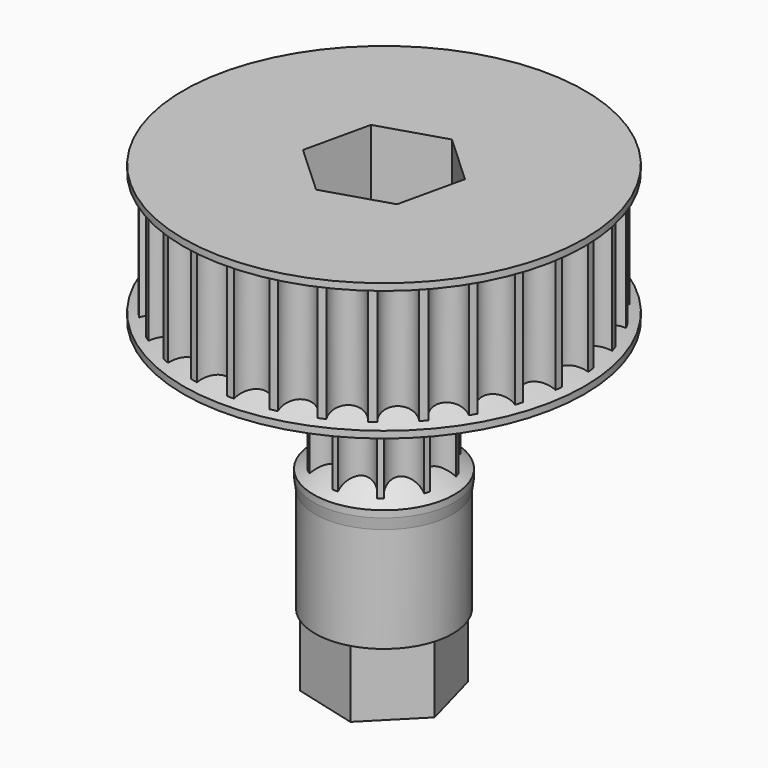
from build123d import *

# Parameters (mm, degrees)
PAD_DEPTH    = 10
PAD001_DEPTH = 10
POCKET_DEPTH = 5
PAD002_DEPTH = 5


with BuildPart() as part:
    # Sketch → Pad (new body)
    with BuildSketch(Plane.XY):
        with BuildLine():
            ThreePointArc((13.916535, -1.732365), (13.94712, -1.465901), (13.972604, -1.198901))
            ThreePointArc((13.972604, 1.198901), (12.823945, 0), (13.972604, -1.198901))
            ThreePointArc((13.972604, 1.198901), (13.94712, 1.465901), (13.916535, 1.732365))
            ThreePointArc((13.418004, 4.07777), (12.543711, 2.666248), (13.916535, 1.732365))
            ThreePointArc((13.418004, 4.07777), (13.337564, 4.333637), (13.252246, 4.587919))
            ThreePointArc((12.276972, 6.778421), (11.715257, 5.215968), (13.252246, 4.587919))
            ThreePointArc((12.276972, 6.778421), (12.145093, 7.011972), (12.008771, 7.242959))
            ThreePointArc((10.599378, 9.182822), (10.374789, 7.537726), (12.008771, 7.242959))
            ThreePointArc((10.599378, 9.182822), (10.421822, 9.383851), (10.240454, 9.581447))
            ThreePointArc((8.45854, 11.18589), (8.580894, 9.530048), (10.240454, 9.581447))
            ThreePointArc((8.45854, 11.18589), (8.243068, 11.34561), (8.024581, 11.50118))
            ThreePointArc((5.948023, 12.700081), (6.411972, 11.105862), (8.024581, 11.50118))
            ThreePointArc((5.948023, 12.700081), (5.704052, 12.811511), (5.457995, 12.918255))
            ThreePointArc((3.177549, 13.659217), (3.962817, 12.196296), (5.457995, 12.918255))
            ThreePointArc((3.177549, 13.659217), (2.915742, 13.717488), (2.652868, 13.770741))
            ThreePointArc((0.268201, 14.02138), (1.340467, 12.753694), (2.652868, 13.770741))
            ThreePointArc((0.268201, 14.02138), (0, 14.023945), (-0.268201, 14.02138))
            ThreePointArc((-2.652868, 13.770741), (-1.340467, 12.753694), (-0.268201, 14.02138))
            ThreePointArc((-2.652868, 13.770741), (-2.915742, 13.717488), (-3.177549, 13.659217))
            ThreePointArc((-5.457995, 12.918255), (-3.962817, 12.196296), (-3.177549, 13.659217))
            ThreePointArc((-5.457995, 12.918255), (-5.704052, 12.811511), (-5.948023, 12.700081))
            ThreePointArc((-8.024581, 11.50118), (-6.411972, 11.105862), (-5.948023, 12.700081))
            ThreePointArc((-8.024581, 11.50118), (-8.243068, 11.34561), (-8.45854, 11.18589))
            ThreePointArc((-10.240454, 9.581447), (-8.580894, 9.530048), (-8.45854, 11.18589))
            ThreePointArc((-10.240454, 9.581447), (-10.421822, 9.383851), (-10.599378, 9.182822))
            ThreePointArc((-12.008771, 7.242959), (-10.374789, 7.537726), (-10.599378, 9.182822))
            ThreePointArc((-12.008771, 7.242959), (-12.145093, 7.011972), (-12.276972, 6.778421))
            ThreePointArc((-13.252246, 4.587919), (-11.715257, 5.215968), (-12.276972, 6.778421))
            ThreePointArc((-13.252246, 4.587919), (-13.337564, 4.333637), (-13.418004, 4.07777))
            ThreePointArc((-13.916535, 1.732365), (-12.543711, 2.666248), (-13.418004, 4.07777))
            ThreePointArc((-13.916535, 1.732365), (-13.94712, 1.465901), (-13.972604, 1.198901))
            ThreePointArc((-13.972604, -1.198901), (-12.823945, 0), (-13.972604, 1.198901))
            ThreePointArc((-13.972604, -1.198901), (-13.94712, -1.465901), (-13.916535, -1.732365))
            ThreePointArc((-13.418004, -4.07777), (-12.543711, -2.666248), (-13.916535, -1.732365))
            ThreePointArc((-13.418004, -4.07777), (-13.337564, -4.333637), (-13.252246, -4.587919))
            ThreePointArc((-12.276972, -6.778421), (-11.715257, -5.215968), (-13.252246, -4.587919))
            ThreePointArc((-12.276972, -6.778421), (-12.145093, -7.011972), (-12.008771, -7.242959))
            ThreePointArc((-10.599378, -9.182822), (-10.374789, -7.537726), (-12.008771, -7.242959))
            ThreePointArc((-10.599378, -9.182822), (-10.421822, -9.383851), (-10.240454, -9.581447))
            ThreePointArc((-8.45854, -11.18589), (-8.580894, -9.530048), (-10.240454, -9.581447))
            ThreePointArc((-8.45854, -11.18589), (-8.243068, -11.34561), (-8.024581, -11.50118))
            ThreePointArc((-5.948023, -12.700081), (-6.411972, -11.105862), (-8.024581, -11.50118))
            ThreePointArc((-5.948023, -12.700081), (-5.704052, -12.811511), (-5.457995, -12.918255))
            ThreePointArc((-3.177549, -13.659217), (-3.962817, -12.196296), (-5.457995, -12.918255))
            ThreePointArc((-3.177549, -13.659217), (-2.915742, -13.717488), (-2.652868, -13.770741))
            ThreePointArc((-0.268201, -14.02138), (-1.340467, -12.753694), (-2.652868, -13.770741))
            ThreePointArc((-0.268201, -14.02138), (0, -14.023945), (0.268201, -14.02138))
            ThreePointArc((2.652868, -13.770741), (1.340467, -12.753694), (0.268201, -14.02138))
            ThreePointArc((2.652868, -13.770741), (2.915742, -13.717488), (3.177549, -13.659217))
            ThreePointArc((5.457995, -12.918255), (3.962817, -12.196296), (3.177549, -13.659217))
            ThreePointArc((5.457995, -12.918255), (5.704052, -12.811511), (5.948023, -12.700081))
            ThreePointArc((8.024581, -11.50118), (6.411972, -11.105862), (5.948023, -12.700081))
            ThreePointArc((8.024581, -11.50118), (8.243068, -11.34561), (8.45854, -11.18589))
            ThreePointArc((10.240454, -9.581447), (8.580894, -9.530048), (8.45854, -11.18589))
            ThreePointArc((10.240454, -9.581447), (10.421822, -9.383851), (10.599378, -9.182822))
            ThreePointArc((12.008771, -7.242959), (10.374789, -7.537726), (10.599378, -9.182822))
            ThreePointArc((12.008771, -7.242959), (12.145093, -7.011972), (12.276972, -6.778421))
            ThreePointArc((13.252246, -4.587919), (11.715257, -5.215968), (12.276972, -6.778421))
            ThreePointArc((13.252246, -4.587919), (13.337564, -4.333637), (13.418004, -4.07777))
            ThreePointArc((13.916535, -1.732365), (12.543711, -2.666248), (13.418004, -4.07777))
        make_face()
    extrude(amount=PAD_DEPTH)

    # Sketch001 (on Face61 of Pad) → Pad001 (join)
    with BuildSketch(Plane(origin=(0, 0, 0), x_dir=(1, 0, 0), z_dir=(0, 0, -1))):
        with BuildLine():
            ThreePointArc((4.188863, -1.573501), (4.255643, -1.382742), (4.313742, -1.189163))
            ThreePointArc((4.313742, 1.189163), (3.274648, 0), (4.313742, -1.189163))
            ThreePointArc((4.313742, 1.189163), (4.255643, 1.382742), (4.188863, 1.573501))
            ThreePointArc((2.790918, 3.497607), (2.649246, 1.92479), (4.188863, 1.573501))
            ThreePointArc((2.790918, 3.497607), (2.630132, 3.620067), (2.463981, 3.735141))
            ThreePointArc((0.202058, 4.470084), (1.011922, 3.114376), (2.463981, 3.735141))
            ThreePointArc((0.202058, 4.470084), (0, 4.474648), (-0.202058, 4.470084))
            ThreePointArc((-2.463981, 3.735141), (-1.011922, 3.114376), (-0.202058, 4.470084))
            ThreePointArc((-2.463981, 3.735141), (-2.630132, 3.620067), (-2.790918, 3.497607))
            ThreePointArc((-4.188863, 1.573501), (-2.649246, 1.92479), (-2.790918, 3.497607))
            ThreePointArc((-4.188863, 1.573501), (-4.255643, 1.382742), (-4.313742, 1.189163))
            ThreePointArc((-4.313742, -1.189163), (-3.274648, 0), (-4.313742, 1.189163))
            ThreePointArc((-4.313742, -1.189163), (-4.255643, -1.382742), (-4.188863, -1.573501))
            ThreePointArc((-2.790918, -3.497607), (-2.649246, -1.92479), (-4.188863, -1.573501))
            ThreePointArc((-2.790918, -3.497607), (-2.630132, -3.620067), (-2.463981, -3.735141))
            ThreePointArc((-0.202058, -4.470084), (-1.011922, -3.114376), (-2.463981, -3.735141))
            ThreePointArc((-0.202058, -4.470084), (0, -4.474648), (0.202058, -4.470084))
            ThreePointArc((2.463981, -3.735141), (1.011922, -3.114376), (0.202058, -4.470084))
            ThreePointArc((2.463981, -3.735141), (2.630132, -3.620067), (2.790918, -3.497607))
            ThreePointArc((4.188863, -1.573501), (2.649246, -1.92479), (2.790918, -3.497607))
        make_face()
    extrude(amount=PAD001_DEPTH)

    # Sketch002 → Revolution (revolve)
    with BuildSketch(Plane.XZ):
        Polygon((11.7, 10), (14.665901, 10), (14.665901, 9.5), (11.7, 8.5), align=None)
        Polygon((11.7, 0), (11.7, 1.5), (14.665901, 0.5), (14.665901, 0), align=None)
        Polygon((0, -8.228681), (0, -18.55591), (5.03, -18.55591), (5.03, -10.877069), (5.14349, -10.070035), (5.14349, -9.570035), (2.945294, -8.228681), align=None)
        Polygon((2.945294, 0), (5.14349, 0), (5.14349, -0.5), (2.945294, -1.619589), align=None)
    revolve(axis=Axis((0, 0, 0), (0, 0, 1)))

    # Sketch003 (on Face96 of Revolution) → Pocket (cut)
    with BuildSketch(Plane.XY.offset(10)):
        Polygon((3.648031, -3.367951), (4.740747, 1.475312), (1.092716, 4.843263), (-3.648031, 3.367951), (-4.740747, -1.475312), (-1.092716, -4.843263), align=None)
    extrude(amount=-POCKET_DEPTH, mode=Mode.SUBTRACT)

    # Sketch004 (on Face97 of Pocket) → Pad002 (join)
    with BuildSketch(Plane(origin=(0, 0, -18.55591), x_dir=(1, 0, 0), z_dir=(0, 0, -1))):
        Polygon((3.404143, -3.440554), (4.681679, 1.227797), (1.277536, 4.668351), (-3.404143, 3.440554), (-4.681679, -1.227797), (-1.277536, -4.668351), align=None)
    extrude(amount=PAD002_DEPTH)


solid = part.part
